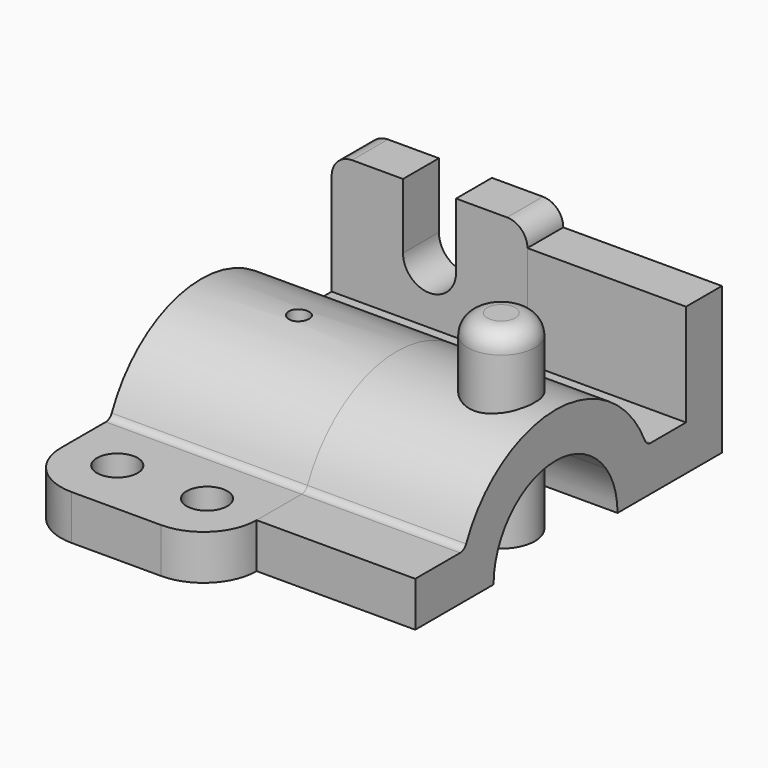
from build123d import *

# Parameters (mm, degrees)
F0_W      = 11
F0_H      = 30
F1_DEPTH  = 24
F3_DEPTH  = 11
F4_R      = 2.5
F4_R_2    = 5
F5_DEPTH  = 41.001
F6_R      = 13
F7_R      = 5
F8_R      = 2
F9_R      = 8.2551994861
F10_DEPTH = 46.6
F11_R     = 4.8284271247
F12_DEPTH = 38.9


with BuildPart() as f1:
    # F0 (on Right) → F1 (new body, symmetric)
    with BuildSketch(Plane.YZ):
        with BuildLine():
            Line((-56, 0), (-30, 0))
            ThreePointArc((-30, 0), (-29.4730143031, 5.5983415304), (-27.9105714739, 11))
            Line((-27.9105714739, 11), (-56, 11))
            Line((-56, 11), (-56, 0))
        make_face()
        with BuildLine():
            Line((-30, 0), (-19, 0))
            ThreePointArc((-19, 0), (-18.1017503893, 5.7729223833), (-15.4919333848, 11))
            Line((-15.4919333848, 11), (-27.9105714739, 11))
            ThreePointArc((-27.9105714739, 11), (-29.4730143031, 5.5983415304), (-30, 0))
        make_face()
        with BuildLine():
            ThreePointArc((15.4919333848, 11), (18.1017503893, 5.7729223833), (19, 0))
            Line((19, 0), (30, 0))
            ThreePointArc((30, 0), (29.4730143031, 5.5983415304), (27.9105714739, 11))
            Line((27.9105714739, 11), (15.4919333848, 11))
        make_face()
        with BuildLine():
            ThreePointArc((-15.4919333848, 11), (0, 19), (15.4919333848, 11))
            Line((15.4919333848, 11), (27.9105714739, 11))
            ThreePointArc((27.9105714739, 11), (0, 30), (-27.9105714739, 11))
            Line((-27.9105714739, 11), (-15.4919333848, 11))
        make_face()
        with BuildLine():
            ThreePointArc((27.9105714739, 11), (29.4730143031, 5.5983415304), (30, 0))
            Line((30, 0), (51, 0))
            Line((51, 0), (51, 11))
            Line((51, 11), (40, 11))
            Line((40, 11), (27.9105714739, 11))
        make_face()
        with Locations((45.5, 26)):
            Rectangle(F0_W, F0_H)
    extrude(amount=F1_DEPTH, both=True)

    # F2 (on face) → F3 (cut, through all)
    with BuildSketch(Plane(origin=(0, 51, 0), x_dir=(-1, 0, 0), z_dir=(0, 1, 0))):
        with BuildLine():
            ThreePointArc((-6.5, 25), (0, 18.5), (6.5, 25))
            ThreePointArc((6.5, 25), (0, 31.5), (-6.5, 25))
        make_face()
        with BuildLine():
            ThreePointArc((-6.5, 25), (0, 31.5), (6.5, 25))
            Line((6.5, 25), (6.5, 41))
            Line((6.5, 41), (-6.5, 41))
            Line((-6.5, 41), (-6.5, 25))
        make_face()
    extrude(amount=-F3_DEPTH, mode=Mode.SUBTRACT)

    # F4 (on Top) → F5 (cut, through all)
    with BuildSketch(Plane.XY):
        Circle(F4_R)
        with Locations((-11, -41.955285737)):
            Circle(F4_R_2)
        with Locations((11, -41.955285737)):
            Circle(F4_R_2)
    extrude(amount=F5_DEPTH, mode=Mode.SUBTRACT)

    # F6
    f6_edges = [f1.edges().sort_by_distance(p)[0] for p in [
        (24, -56, 5.5),
        (-24, -56, 5.5),
    ]]
    fillet(f6_edges, radius=F6_R)

    # F7
    f7_edges = [f1.edges().sort_by_distance(p)[0] for p in [
        (24, 45.5, 41),
        (-24, 45.5, 41),
    ]]
    fillet(f7_edges, radius=F7_R)

    # F8
    f8_edges = [f1.edges().sort_by_distance(p)[0] for p in [
        (0, -27.910571, 11),
        (0, 27.910571, 11),
    ]]
    fillet(f8_edges, radius=F8_R)


with BuildPart() as f10:
    # F9 (on Top) → F10 (new body)
    with BuildSketch(Plane.XY):
        with Locations((49.5980121195, 0)):
            Circle(F9_R)
    extrude(amount=F10_DEPTH)

    # F11
    f11_edges = [f10.edges().sort_by_distance(p)[0] for p in [
        (41.342813, 0, 46.6),
    ]]
    fillet(f11_edges, radius=F11_R)


with BuildPart() as f12:
    # F12 (new): a face of the model
    f12_faces = [f1.part.faces().sort_by_distance(p)[0] for p in [
        (24, 34.6201915172, 9.9934216374),
    ]]
    extrude(f12_faces, amount=F12_DEPTH)


solid = Compound([f1.part, f10.part, f12.part])
